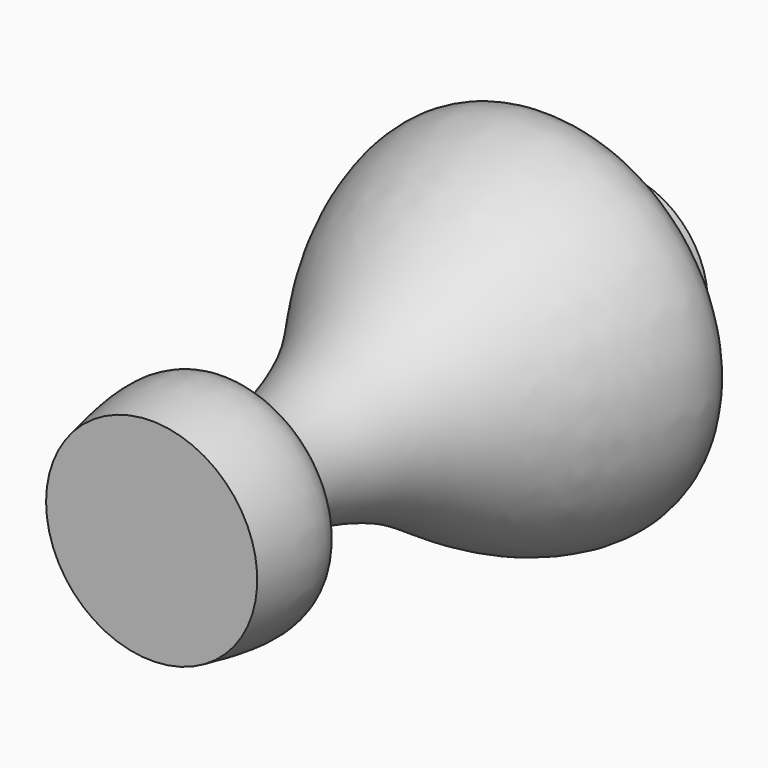
from build123d import *


with BuildPart() as f1:
    # F0 (on Top) → F1 (revolve)
    with BuildSketch(Plane.XY):
        with BuildLine():
            Line((0, -66.2482380867), (0, 52.9093034565))
            Line((0, 52.9093034565), (-18.0185735226, 56.2959983945))
            Line((-18.0185735226, 56.2959983945), (-18.0185735226, 44.4661527872))
            add(Edge.make_bspline(
                [(-22.037345916, -66.2482380867), (-23.6419740223, -57.9902750845), (-26.4000961262, -43.7960389242), (-8.16772348, -46.7250928635), (-13.3411287463, -21.4933053302), (-21.3776621791, -4.7927656646), (-34.271916475, 11.786141838), (-41.7859815151, 35.9197911912), (-28.5958421943, 42.0412768779), (-21.5281172463, 43.6615775899), (-18.0185735226, 44.4661527872)],
                knots=[0, 0, 0, 0, 0.135145378, 0.2322952296, 0.3694329249, 0.5075754869, 0.6508304503, 0.7939128535, 0.897665535, 1, 1, 1, 1], degree=3))
            Line((-22.037345916, -66.2482380867), (0, -66.2482380867))
        make_face()
    revolve(axis=Axis((0, -18.6600498855, 0), (0, -1, 0)))


solid = f1.part
